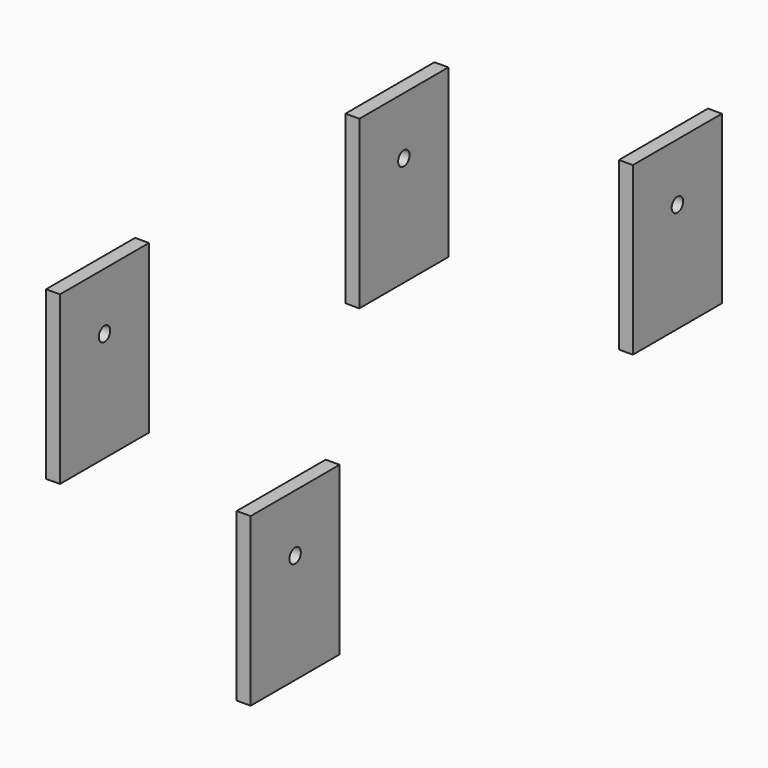
from build123d import *

# Parameters (mm, degrees)
F0_W     = 25.4
F0_H     = 38.1
F0_R     = 1.6375
F1_DEPTH = 3.175
F2_DEPTH = 3.175
F3_DEPTH = 3.175
F4_DEPTH = 3.175


with BuildPart() as f1:
    # F0 (on Right) → F1 (new body)
    with BuildSketch(Plane.YZ):
        with Locations((-26.436894, 19.617149)):
            Rectangle(F0_W, F0_H)
        with Locations((-26.436894, 25.56715)):
            Circle(F0_R, mode=Mode.SUBTRACT)
    extrude(amount=-F1_DEPTH)


with BuildPart() as f2:
    # F0 (on Right) → F2 (new body)
    with BuildSketch(Plane.YZ):
        with Locations((51.60028, -21.411628)):
            Rectangle(F0_W, F0_H)
        with Locations((51.60028, -15.461628)):
            Circle(F0_R, mode=Mode.SUBTRACT)
    extrude(amount=-F2_DEPTH)


with BuildPart() as f3:
    # F0 (on Right) → F3 (new body)
    with BuildSketch(Plane.YZ):
        with Locations((-111.831239, 19.05)):
            Rectangle(F0_W, F0_H)
        with Locations((-111.831239, 25.000001)):
            Circle(F0_R, mode=Mode.SUBTRACT)
    extrude(amount=-F3_DEPTH)


with BuildPart() as f4:
    # F0 (on Right) → F4 (new body)
    with BuildSketch(Plane.YZ):
        with Locations((-57.454268, -47.613632)):
            Rectangle(F0_W, F0_H)
        with Locations((-57.454268, -41.663631)):
            Circle(F0_R, mode=Mode.SUBTRACT)
    extrude(amount=-F4_DEPTH)


solid = Compound([f1.part, f2.part, f3.part, f4.part])
